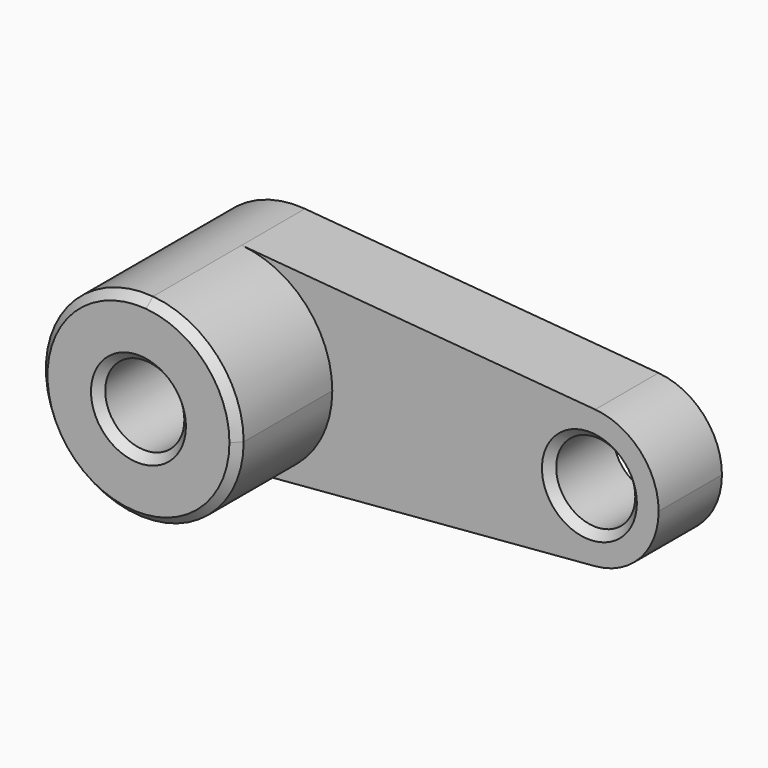
from build123d import *

# Parameters (mm, degrees)
F0_R     = 10
F1_DEPTH = 20
F2_DEPTH = 50
F3_SIZE  = 2


with BuildPart() as f1:
    # F0 (on Front) → F1 (new body)
    with BuildSketch(Plane.XZ):
        with BuildLine():
            ThreePointArc((2.083333, -24.913043), (18.399502, -16.92508), (25, 0))
            ThreePointArc((25, 0), (18.399502, 16.92508), (2.083333, 24.913043))
            ThreePointArc((2.083333, 24.913043), (-25, 0), (2.083333, -24.913043))
        make_face()
        Circle(F0_R, mode=Mode.SUBTRACT)
        with BuildLine():
            ThreePointArc((2.083333, 24.913043), (18.399502, 16.92508), (25, 0))
            ThreePointArc((25, 0), (18.399502, -16.92508), (2.083333, -24.913043))
            Line((2.083333, -24.913043), (91.458333, -17.43913))
            ThreePointArc((91.458333, -17.43913), (72.5, 0), (91.458333, 17.43913))
            Line((91.458333, 17.43913), (2.083333, 24.913043))
        make_face()
        with BuildLine():
            ThreePointArc((107.5, 0), (102.879651, 11.847556), (91.458333, 17.43913))
            ThreePointArc((91.458333, 17.43913), (72.5, 0), (91.458333, -17.43913))
            ThreePointArc((91.458333, -17.43913), (102.879651, -11.847556), (107.5, 0))
        make_face()
        with Locations((90, 0)):
            Circle(F0_R, mode=Mode.SUBTRACT)
    extrude(amount=F1_DEPTH)

    # F0 (on Front) → F2 (join)
    with BuildSketch(Plane.XZ):
        with BuildLine():
            ThreePointArc((2.083333, -24.913043), (18.399502, -16.92508), (25, 0))
            ThreePointArc((25, 0), (18.399502, 16.92508), (2.083333, 24.913043))
            ThreePointArc((2.083333, 24.913043), (-25, 0), (2.083333, -24.913043))
        make_face()
        Circle(F0_R, mode=Mode.SUBTRACT)
    extrude(amount=F2_DEPTH)

    # F3
    f3_edges = [f1.edges().sort_by_distance(p)[0] for p in [
        (-10, 0, 0),
        (10, -25, 0),
        (-10, -50, 0),
        (-2.083333, -50, 24.913043),
        (80, -20, 0),
    ]]
    chamfer(f3_edges, length=F3_SIZE)


solid = f1.part
